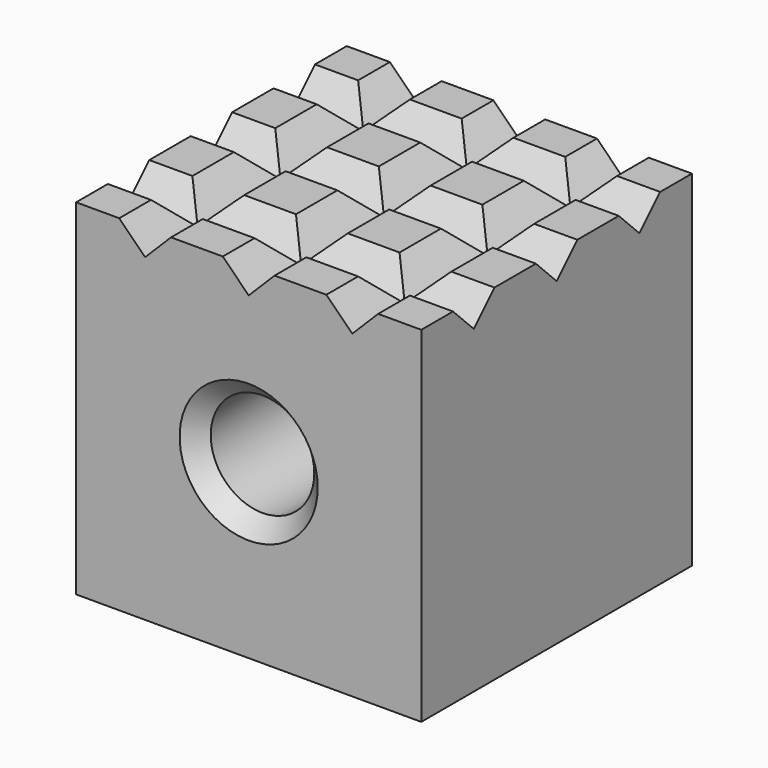
from build123d import *

# Parameters (mm, degrees)
F0_W     = 20
F0_H     = 20
F0_R     = 3
F1_DEPTH = 19.6
F2_SIZE  = 1
F4_DEPTH = 19.601
F6_DEPTH = 20.001


with BuildPart() as f1:
    # F0 (on Front) → F1 (new body)
    with BuildSketch(Plane.XZ):
        Rectangle(F0_W, F0_H)
        Circle(F0_R, mode=Mode.SUBTRACT)
    extrude(amount=F1_DEPTH)

    # F2
    f2_edges = [f1.edges().sort_by_distance(p)[0] for p in [
        (-3, -19.6, 0),
        (-3, 0, 0),
    ]]
    chamfer(f2_edges, length=F2_SIZE)

    # F3 (on face) → F4 (cut, through all)
    with BuildSketch(Plane.XZ.offset(19.6)):
        Polygon((-4.5, 10), (-7.5, 10), (-6, 8.5), align=None)
        Polygon((1.5, 10), (-1.5, 10), (0, 8.5), align=None)
        Polygon((7.5, 10), (4.5, 10), (6, 8.5), align=None)
    extrude(amount=-F4_DEPTH, mode=Mode.SUBTRACT)

    # F5 (on face) → F6 (cut, through all)
    with BuildSketch(Plane.YZ.offset(10)):
        Polygon((-14.3, 10), (-17.3, 10), (-15.8, 8.5), align=None)
        Polygon((-8.3, 10), (-11.3, 10), (-9.8, 8.5), align=None)
        Polygon((-2.3, 10), (-5.3, 10), (-3.8, 8.5), align=None)
    extrude(amount=-F6_DEPTH, mode=Mode.SUBTRACT)


solid = f1.part
